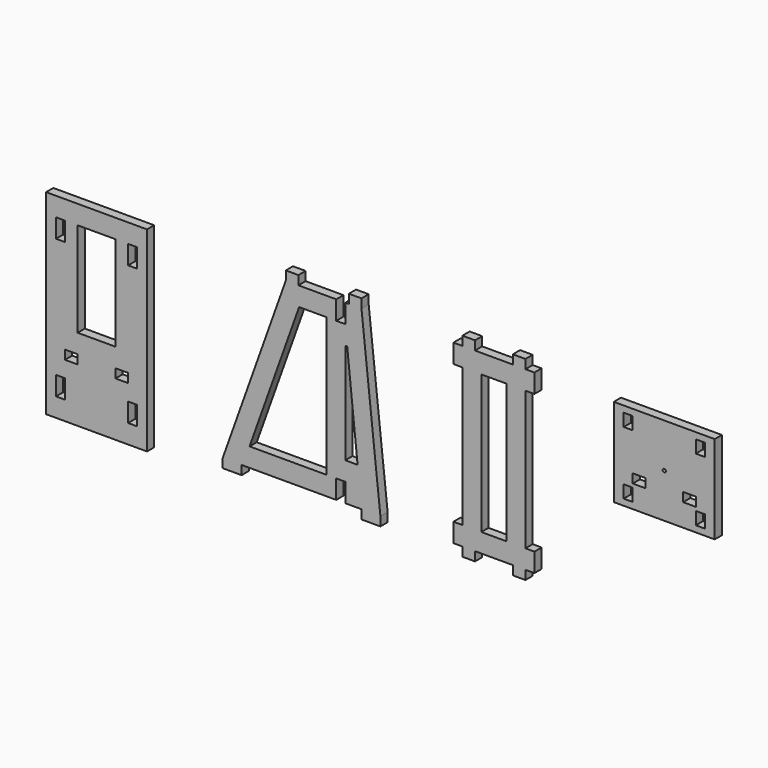
from build123d import *

# Parameters (mm, degrees)
F0_W     = 50.8
F0_H     = 279.4
F0_W_2   = 203.2
F0_H_2   = 177.8
F0_W_3   = 18.161
F0_H_3   = 25.4
F0_W_4   = 25.4
F0_H_4   = 18.161
F0_R     = 3.302
F0_H_5   = 393.7
F0_H_6   = 38.1
F0_W_5   = 76.2
F0_H_7   = 190.5
F1_DEPTH = 18.161


with BuildPart() as f1:
    # F0 (on Front) → F1 (new body)
    with BuildSketch(Plane.XZ):
        Polygon((0, 139.7), (0, 177.8), (-76.2, 177.8), (-76.2, 195.961), (-101.6, 195.961), (-101.6, 177.8), (-228.6, -177.8), (-228.6, -195.961), (-190.5, -195.961), (-190.5, -177.8), (0, -177.8), (0, -139.7), (18.161, -139.7), (18.161, -177.8), (50.8, -177.8), (50.8, -195.961), (88.9, -195.961), (88.9, -177.8), (50.8, 177.8), (50.8, 195.961), (25.4, 195.961), (25.4, 177.8), (18.161, 177.8), (18.161, 139.7), align=None)
        Polygon((-74.750199, 139.7), (-19.939, 139.7), (-19.939, -139.7), (-174.535913, -139.7), align=None, mode=Mode.SUBTRACT)
        Polygon((18.161, 101.6), (22.07768, 101.6), (42.96664, -101.6), (18.161, -101.6), align=None, mode=Mode.SUBTRACT)
        Polygon((355.6, 177.8), (279.4, 177.8), (279.4, 195.961), (254, 195.961), (254, 177.8), (235.966, 177.8), (235.966, 139.7), (254, 139.7), (254, -139.7), (235.966, -139.7), (235.966, -177.8), (254, -177.8), (254, -195.961), (279.4, -195.961), (279.4, -177.8), (355.6, -177.8), (355.6, -195.961), (381, -195.961), (381, -177.8), (399.034, -177.8), (399.034, -139.7), (381, -139.7), (381, 139.7), (399.034, 139.7), (399.034, 177.8), (381, 177.8), (381, 195.961), (355.6, 195.961), align=None)
        with Locations((317.5, 0)):
            Rectangle(F0_W, F0_H, mode=Mode.SUBTRACT)
        with Locations((660.4, 88.9)):
            Rectangle(F0_W_2, F0_H_2)
        with Locations((587.8195, 25.4)):
            Rectangle(F0_W_3, F0_H_3, mode=Mode.SUBTRACT)
        with Locations((732.9805, 25.4)):
            Rectangle(F0_W_3, F0_H_3, mode=Mode.SUBTRACT)
        with Locations((609.6, 54.4195)):
            Rectangle(F0_W_4, F0_H_4, mode=Mode.SUBTRACT)
        with Locations((711.2, 54.4195)):
            Rectangle(F0_W_4, F0_H_4, mode=Mode.SUBTRACT)
        with Locations((660.4, 88.9)):
            Circle(F0_R, mode=Mode.SUBTRACT)
        with Locations((587.8195, 152.4)):
            Rectangle(F0_W_3, F0_H_3, mode=Mode.SUBTRACT)
        with Locations((732.9805, 152.4)):
            Rectangle(F0_W_3, F0_H_3, mode=Mode.SUBTRACT)
        with Locations((-482.6, -19.05)):
            Rectangle(F0_W_2, F0_H_5)
        with Locations((-555.1805, -158.75)):
            Rectangle(F0_W_3, F0_H_6, mode=Mode.SUBTRACT)
        with Locations((-410.0195, -158.75)):
            Rectangle(F0_W_3, F0_H_6, mode=Mode.SUBTRACT)
        with Locations((-533.4, -97.9805)):
            Rectangle(F0_W_4, F0_H_4, mode=Mode.SUBTRACT)
        with Locations((-431.8, -97.9805)):
            Rectangle(F0_W_4, F0_H_4, mode=Mode.SUBTRACT)
        with Locations((-482.6, 44.45)):
            Rectangle(F0_W_5, F0_H_7, mode=Mode.SUBTRACT)
        with Locations((-555.1805, 120.65)):
            Rectangle(F0_W_3, F0_H_6, mode=Mode.SUBTRACT)
        with Locations((-410.0195, 120.65)):
            Rectangle(F0_W_3, F0_H_6, mode=Mode.SUBTRACT)
    extrude(amount=F1_DEPTH)


solid = f1.part
